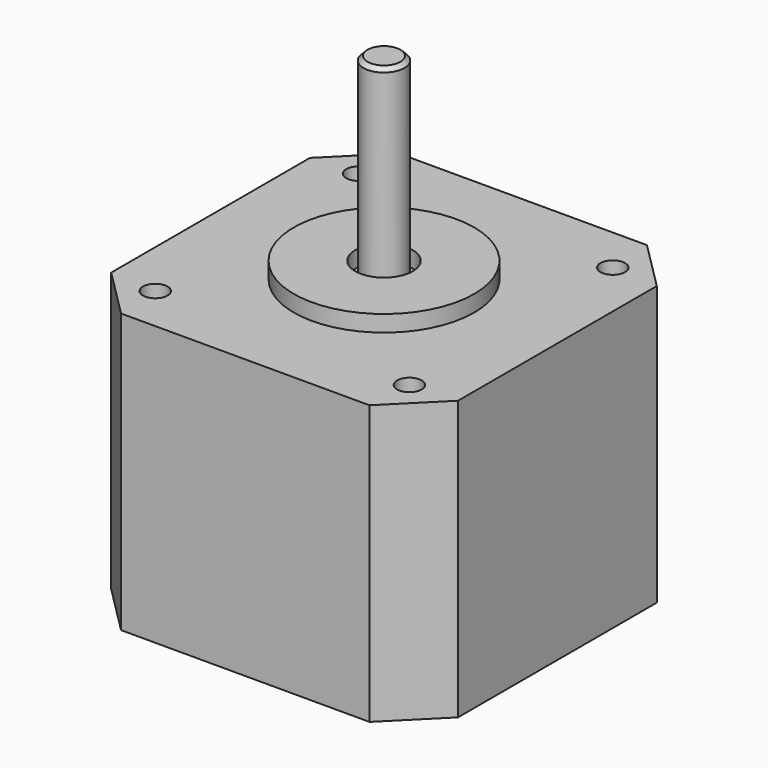
from build123d import *

# Parameters (mm, degrees)
F0_W     = 42.3
F0_H     = 42.3
F1_DEPTH = 34
F2_R     = 11
F2_R_2   = 3.5
F3_DEPTH = 2
F4_R     = 2.5
F5_DEPTH = 24
F6_SIZE  = 0.5
F7_R     = 1.5
F8_DEPTH = 5
F9_SIZE  = 6


with BuildPart() as f1:
    # F0 (on Top) → F1 (new body)
    with BuildSketch(Plane.XY):
        Rectangle(F0_W, F0_H)
    extrude(amount=F1_DEPTH)

    # F2 (on face) → F3 (join)
    with BuildSketch(Plane.XY.offset(34)):
        Circle(F2_R)
        Circle(F2_R_2, mode=Mode.SUBTRACT)
    extrude(amount=F3_DEPTH)

    # F4 (on face) → F5 (join)
    with BuildSketch(Plane.XY.offset(34)):
        Circle(F4_R)
    extrude(amount=F5_DEPTH)

    # F6
    f6_edges = [f1.edges().sort_by_distance(p)[0] for p in [
        (-2.5, 0, 58),
    ]]
    chamfer(f6_edges, length=F6_SIZE)

    # F7 (on face) → F8 (cut)
    with BuildSketch(Plane.XY.offset(34)):
        with Locations((-15.5, 15.5)):
            Circle(F7_R)
        with Locations((-15.5, -15.5)):
            Circle(F7_R)
        with Locations((15.5, 15.5)):
            Circle(F7_R)
        with Locations((15.5, -15.5)):
            Circle(F7_R)
    extrude(amount=-F8_DEPTH, mode=Mode.SUBTRACT)

    # F9
    f9_edges = [f1.edges().sort_by_distance(p)[0] for p in [
        (21.15, -21.15, 17),
        (-21.15, -21.15, 17),
        (21.15, 21.15, 17),
        (-21.15, 21.15, 17),
    ]]
    chamfer(f9_edges, length=F9_SIZE)


solid = f1.part
